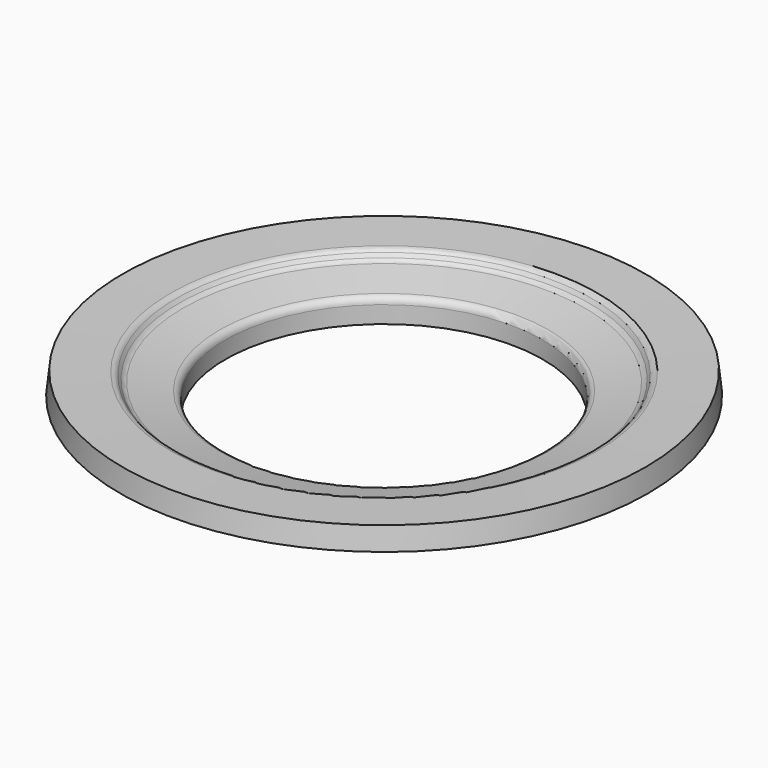
from build123d import *


with BuildPart() as f2:
    # F0 (on Front) → F2 (revolve)
    with BuildSketch(Plane.XZ):
        with BuildLine():
            Line((0, 4.8663542424), (0, 0))
            Line((0, 0), (15.6667227655, 0))
            ThreePointArc((15.6667227655, 0), (13.7773164433, 5.1852600634), (18.845, 3))
            Line((18.845, 3), (19.86, 3))
            Line((19.86, 3), (19.86, 2.993454116))
            ThreePointArc((19.86, 2.993454116), (22.9264459376, 4.8231018265), (26.44, 5.46))
            Line((26.44, 5.46), (29.802853948, 5.5011376765))
            Line((29.802853948, 5.5011376765), (29.114253722, 11.8324700975))
            Line((29.114253722, 11.8324700975), (15.5053326221, 11.4758225101))
            ThreePointArc((15.5053326221, 11.4758225101), (14.6269036672, 11.2466968771), (13.9402562569, 10.6528523533))
            Line((13.9402562569, 10.6528523533), (13.2210148604, 9.663895433))
            ThreePointArc((13.2210148604, 9.663895433), (12.6802655973, 9.1548107567), (11.9910424439, 8.878136909))
            Line((11.9910424439, 8.878136909), (1.6125002479, 6.8284561618))
            ThreePointArc((1.6125002479, 6.8284561618), (0.4548463662, 6.1361968499), (0, 4.8663542424))
        make_face()
        with BuildLine():
            Line((15.84, 0), (15.6667227655, 0))
            ThreePointArc((15.6667227655, 0), (17.1074832919, 0.2753878983), (18.2462342114, 1.1999828002))
            ThreePointArc((18.2462342114, 1.1999828002), (18.2867395672, 1.2572751196), (18.327645514, 1.3142821124))
            ThreePointArc((18.327645514, 1.3142821124), (19.0460007614, 2.1975088188), (19.86, 2.993454116))
            Line((19.86, 2.993454116), (19.86, 3))
            Line((19.86, 3), (18.845, 3))
            Line((18.845, 3), (15.84, 3))
            Line((15.84, 3), (15.84, 0))
        make_face()
        with BuildLine():
            ThreePointArc((18.845, 3), (13.7773164433, 5.1852600634), (15.6667227655, 0))
            Line((15.6667227655, 0), (15.84, 0))
            Line((15.84, 0), (15.84, 3))
            Line((15.84, 3), (18.845, 3))
        make_face()
    revolve(axis=Axis((-45, 0, 0), (0, 0, 1)))


solid = f2.part
